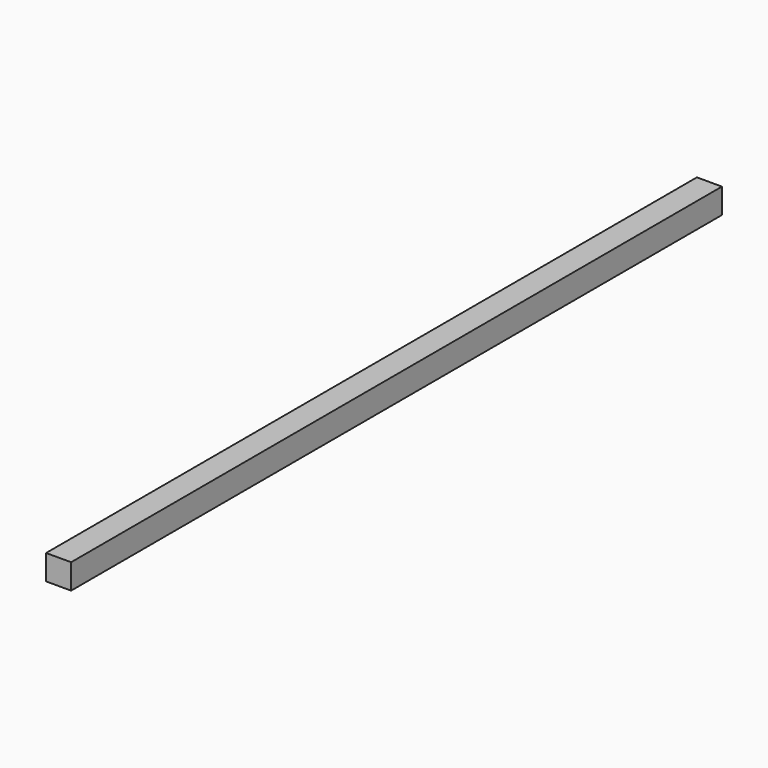
from build123d import *

# Parameters (mm, degrees)
SKETCH_W  = 14
SKETCH_H  = 14
PAD_DEPTH = 455


with BuildPart() as part:
    # Sketch → Pad (new body)
    with BuildSketch(Plane.XZ):
        with Locations((7, 7)):
            Rectangle(SKETCH_W, SKETCH_H)
    extrude(amount=-PAD_DEPTH)


solid = part.part
